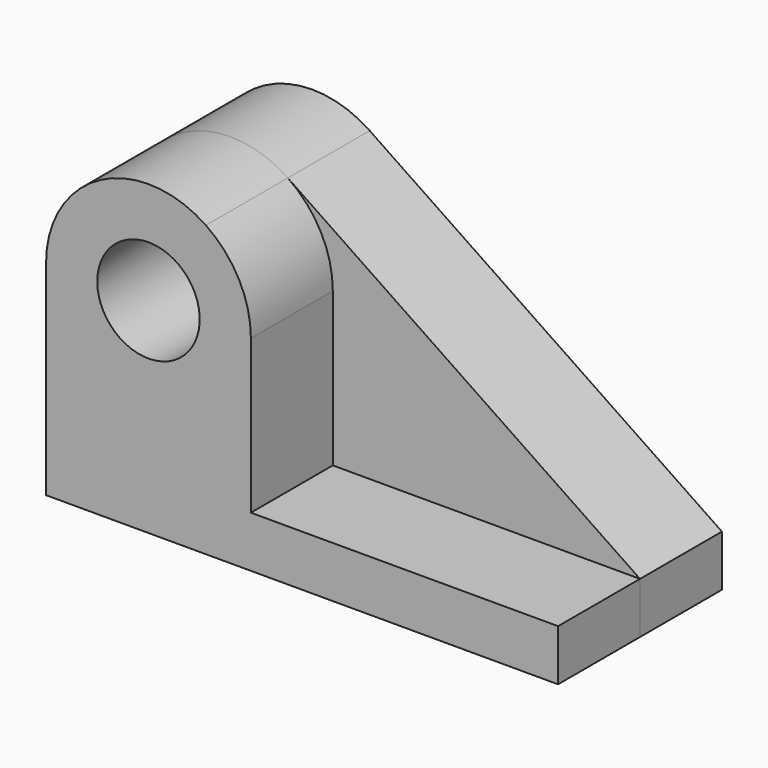
from build123d import *

# Parameters (mm, degrees)
F0_R     = 12.7
F1_DEPTH = 25.4
F3_DEPTH = 25.4


with BuildPart() as f1:
    # F0 (on Front) → F1 (new body)
    with BuildSketch(Plane.XZ):
        with BuildLine():
            Line((60.1472010076, -2.0828003392), (-27.2149258643, 57.0515280025))
            ThreePointArc((-27.2149258643, 57.0515280025), (-53.359058324, 58.4537989737), (-66.8527989924, 36.0171996608))
            Line((-66.8527989924, 36.0171996608), (-66.8527989924, -14.7828003392))
            Line((-66.8527989924, -14.7828003392), (60.1472010076, -14.7828003392))
            Line((60.1472010076, -14.7828003392), (60.1472010076, -2.0828003392))
        make_face()
        with Locations((-41.4527989924, 36.0171996608)):
            Circle(F0_R, mode=Mode.SUBTRACT)
    extrude(amount=F1_DEPTH)

    # F2 (on face) → F3 (join)
    with BuildSketch(Plane.XZ.offset(25.4)):
        with BuildLine():
            Line((-16.0527989924, 36.0171996608), (-28.7527989924, 36.0171996608))
            ThreePointArc((-28.7527989924, 36.0171996608), (-41.4527989924, 23.3171996608), (-54.1527989924, 36.0171996608))
            Line((-54.1527989924, 36.0171996608), (-66.8527989924, 36.0171996608))
            Line((-66.8527989924, 36.0171996608), (-66.8527989924, -2.0828003392))
            Line((-66.8527989924, -2.0828003392), (-66.8527989924, -14.7828003392))
            Line((-66.8527989924, -14.7828003392), (60.1472010076, -14.7828003392))
            Line((60.1472010076, -14.7828003392), (60.1472010076, -2.0828003392))
            Line((60.1472010076, -2.0828003392), (-16.0527989924, -2.0828003392))
            Line((-16.0527989924, -2.0828003392), (-16.0527989924, 36.0171996608))
        make_face()
        with BuildLine():
            ThreePointArc((-54.1527989924, 36.0171996608), (-41.4527989924, 48.7171996608), (-28.7527989924, 36.0171996608))
            Line((-28.7527989924, 36.0171996608), (-16.0527989924, 36.0171996608))
            ThreePointArc((-16.0527989924, 36.0171996608), (-19.0161996795, 47.9234589925), (-27.2149258643, 57.0515280025))
            ThreePointArc((-27.2149258643, 57.0515280025), (-53.359058324, 58.4537989737), (-66.8527989924, 36.0171996608))
            Line((-66.8527989924, 36.0171996608), (-54.1527989924, 36.0171996608))
        make_face()
    extrude(amount=F3_DEPTH)


solid = f1.part
